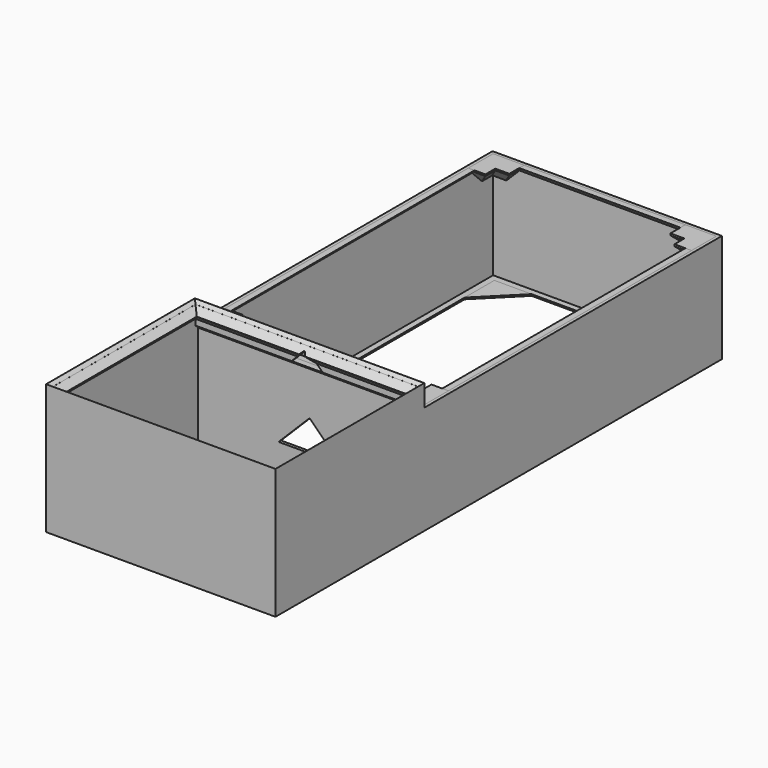
from build123d import *

# Parameters (mm, degrees)
BOX019_W          = 15
BOX019_H          = 15
BOX019_DEPTH      = 0.5
CHAMFER_SIZE      = 12
BOX018_W          = 15
BOX018_H          = 15
BOX018_DEPTH      = 0.5
CHAMFER001_SIZE   = 12
BOX017_W          = 15
BOX017_H          = 15
BOX017_DEPTH      = 0.5
CHAMFER002_SIZE   = 12
BOX016_W          = 15
BOX016_H          = 15
BOX016_DEPTH      = 0.5
CHAMFER003_SIZE   = 12
BOX029_W          = 2
BOX029_H          = 118
BOX029_DEPTH      = 2
CHAMFER008_SIZE   = 1.99
BOX028_W          = 72
BOX028_H          = 2
BOX028_DEPTH      = 2
CHAMFER009_SIZE   = 1.99
BOX031_W          = 2
BOX031_H          = 118
BOX031_DEPTH      = 2
CHAMFER010_SIZE   = 1.99
BOX030_W          = 72
BOX030_H          = 2
BOX030_DEPTH      = 2
CHAMFER011_SIZE   = 1.99
BOX026_W          = 4.5
BOX026_H          = 4
BOX026_DEPTH      = 6
BOX027_W          = 10
BOX027_H          = 10
BOX027_DEPTH      = 6
CHAMFER012_SIZE   = 5.49
CHAMFER013_SIZE   = 0.5
BOX024_W          = 4.5
BOX024_H          = 4
BOX024_DEPTH      = 6
BOX025_W          = 10
BOX025_H          = 10
BOX025_DEPTH      = 6
CHAMFER016_SIZE   = 5.4
CHAMFER017_SIZE   = 0.5
BOX020_W          = 4.5
BOX020_H          = 4
BOX020_DEPTH      = 6
BOX021_W          = 10
BOX021_H          = 10
BOX021_DEPTH      = 6
CHAMFER014_SIZE   = 5.4
CHAMFER018_SIZE   = 0.5
BOX022_W          = 4.5
BOX022_H          = 4
BOX022_DEPTH      = 6
BOX023_W          = 10
BOX023_H          = 10
BOX023_DEPTH      = 6
CHAMFER015_SIZE   = 5.4
CHAMFER019_SIZE   = 0.5
BOX037_W          = 26
BOX037_H          = 16
BOX037_DEPTH      = 0.7
CYLINDER001_R     = 2
CYLINDER001_DEPTH = 10
CYLINDER_R        = 2
CYLINDER_DEPTH    = 10
BOX036_W          = 74
BOX036_H          = 10
BOX036_DEPTH      = 0.7
BOX040_W          = 15
BOX040_H          = 15
BOX040_DEPTH      = 0.5
CHAMFER023_SIZE   = 12
BOX041_W          = 15
BOX041_H          = 15
BOX041_DEPTH      = 0.5
CHAMFER024_SIZE   = 12
BOX042_W          = 15
BOX042_H          = 15
BOX042_DEPTH      = 0.5
CHAMFER025_SIZE   = 12
BOX043_W          = 15
BOX043_H          = 15
BOX043_DEPTH      = 0.5
CHAMFER026_SIZE   = 12
BOX047_W          = 20
BOX047_H          = 10
BOX047_DEPTH      = 10
CHAMFER029_SIZE   = 9.99
BOX046_W          = 10
BOX046_H          = 10
BOX046_DEPTH      = 5
CHAMFER028_SIZE   = 4.99
BOX045_W          = 72
BOX045_H          = 1
BOX045_DEPTH      = 4
CHAMFER027_SIZE   = 0.99
BOX044_W          = 72
BOX044_H          = 1
BOX044_DEPTH      = 37
BOX033_W          = 72
BOX033_H          = 58
BOX033_DEPTH      = 42
BOX032_W          = 74
BOX032_H          = 60
BOX032_DEPTH      = 42
CHAMFER020_SIZE   = 0.99
BOX035_W          = 68
BOX035_H          = 54
BOX035_DEPTH      = 0.5
BOX034_W          = 74
BOX034_H          = 60
BOX034_DEPTH      = 0.5
BOX015_W          = 68
BOX015_H          = 114
BOX015_DEPTH      = 0.5
BOX014_W          = 74
BOX014_H          = 120
BOX014_DEPTH      = 0.5
BOX001_W          = 72
BOX001_H          = 118
BOX001_DEPTH      = 35
BOX_W             = 74
BOX_H             = 120
BOX_DEPTH         = 35
BOX039_W          = 68
BOX039_H          = 54
BOX039_DEPTH      = 4.1
BOX038_W          = 74
BOX038_H          = 60
BOX038_DEPTH      = 4.1
CHAMFER021_SIZE   = 2
CHAMFER022_SIZE   = 2
BOX048_W          = 72
BOX048_H          = 4
BOX048_DEPTH      = 0.5


with BuildPart() as chamfer_body:
    # Box019 → Box019 (new body)
    with BuildSketch(Plane(origin=(0, 105, 0), x_dir=(1, 0, 0), z_dir=(0, 0, 1))):
        with Locations((7.5, 7.5)):
            Rectangle(BOX019_W, BOX019_H)
    extrude(amount=BOX019_DEPTH)

    # Chamfer
    chamfer_edges = [chamfer_body.edges().sort_by_distance(p)[0] for p in [
        (15, 105, 0.25),
    ]]
    chamfer(chamfer_edges, length=CHAMFER_SIZE)


with BuildPart() as chamfer001:
    # Box018 → Box018 (new body)
    with BuildSketch(Plane(origin=(59, 105, 0), x_dir=(1, 0, 0), z_dir=(0, 0, 1))):
        with Locations((7.5, 7.5)):
            Rectangle(BOX018_W, BOX018_H)
    extrude(amount=BOX018_DEPTH)

    # Chamfer001
    chamfer001_edges = [chamfer001.edges().sort_by_distance(p)[0] for p in [
        (59, 105, 0.25),
    ]]
    chamfer(chamfer001_edges, length=CHAMFER001_SIZE)


with BuildPart() as chamfer002:
    # Box017 → Box017 (new body)
    with BuildSketch(Plane(origin=(59, 0, 0), x_dir=(1, 0, 0), z_dir=(0, 0, 1))):
        with Locations((7.5, 7.5)):
            Rectangle(BOX017_W, BOX017_H)
    extrude(amount=BOX017_DEPTH)

    # Chamfer002
    chamfer002_edges = [chamfer002.edges().sort_by_distance(p)[0] for p in [
        (59, 15, 0.25),
    ]]
    chamfer(chamfer002_edges, length=CHAMFER002_SIZE)


with BuildPart() as chamfer002_1:
    # Chamfer002 placement: moved
    add(chamfer002.part.moved(Location((0, -60, 0))))


with BuildPart() as chamfer003:
    # Box016 → Box016 (new body)
    with BuildSketch(Plane.XY):
        with Locations((7.5, 7.5)):
            Rectangle(BOX016_W, BOX016_H)
    extrude(amount=BOX016_DEPTH)

    # Chamfer003
    chamfer003_edges = [chamfer003.edges().sort_by_distance(p)[0] for p in [
        (15, 15, 0.25),
    ]]
    chamfer(chamfer003_edges, length=CHAMFER003_SIZE)


with BuildPart() as chamfer003_1:
    # Chamfer003 placement: moved
    add(chamfer003.part.moved(Location((0, -60, 0))))


with BuildPart() as chamfer008:
    # Box029 → Box029 (new body)
    with BuildSketch(Plane(origin=(1, 1, 33), x_dir=(1, 0, 0), z_dir=(0, 0, 1))):
        with Locations((1, 59)):
            Rectangle(BOX029_W, BOX029_H)
    extrude(amount=BOX029_DEPTH)

    # Chamfer008
    chamfer008_edges = [chamfer008.edges().sort_by_distance(p)[0] for p in [
        (3, 60, 33),
    ]]
    chamfer(chamfer008_edges, length=CHAMFER008_SIZE)


with BuildPart() as chamfer009:
    # Box028 → Box028 (new body)
    with BuildSketch(Plane(origin=(1, 1, 33), x_dir=(1, 0, 0), z_dir=(0, 0, 1))):
        with Locations((36, 1)):
            Rectangle(BOX028_W, BOX028_H)
    extrude(amount=BOX028_DEPTH)

    # Chamfer009
    chamfer009_edges = [chamfer009.edges().sort_by_distance(p)[0] for p in [
        (37, 3, 33),
    ]]
    chamfer(chamfer009_edges, length=CHAMFER009_SIZE)


with BuildPart() as chamfer010:
    # Box031 → Box031 (new body)
    with BuildSketch(Plane(origin=(71, 1, 33), x_dir=(1, 0, 0), z_dir=(0, 0, 1))):
        with Locations((1, 59)):
            Rectangle(BOX031_W, BOX031_H)
    extrude(amount=BOX031_DEPTH)

    # Chamfer010
    chamfer010_edges = [chamfer010.edges().sort_by_distance(p)[0] for p in [
        (71, 60, 33),
    ]]
    chamfer(chamfer010_edges, length=CHAMFER010_SIZE)


with BuildPart() as chamfer011:
    # Box030 → Box030 (new body)
    with BuildSketch(Plane(origin=(1, 117, 33), x_dir=(1, 0, 0), z_dir=(0, 0, 1))):
        with Locations((36, 1)):
            Rectangle(BOX030_W, BOX030_H)
    extrude(amount=BOX030_DEPTH)

    # Chamfer011
    chamfer011_edges = [chamfer011.edges().sort_by_distance(p)[0] for p in [
        (37, 117, 33),
    ]]
    chamfer(chamfer011_edges, length=CHAMFER011_SIZE)


with BuildPart() as cube021:
    # Box026 → Box026 (new body)
    with BuildSketch(Plane(origin=(6.5, 109, 29), x_dir=(1, 0, 0), z_dir=(0, 0, 1))):
        with Locations((2.25, 2)):
            Rectangle(BOX026_W, BOX026_H)
    extrude(amount=BOX026_DEPTH)


with BuildPart() as chamfer013:
    # Box027 → Box027 (new body)
    with BuildSketch(Plane(origin=(1, 109, 29), x_dir=(1, 0, 0), z_dir=(0, 0, 1))):
        with Locations((5, 5)):
            Rectangle(BOX027_W, BOX027_H)
    extrude(amount=BOX027_DEPTH)

    # Cut010: cut Cube021
    add(cube021.part, mode=Mode.SUBTRACT)

    # Chamfer012
    chamfer012_edges = [chamfer013.edges().sort_by_distance(p)[0] for p in [
        (3.75, 109, 29),
        (11, 116, 29),
        (8.75, 113, 29),
        (6.5, 111, 29),
    ]]
    chamfer(chamfer012_edges, length=CHAMFER012_SIZE)

    # Chamfer013
    chamfer013_edges = [chamfer013.edges().sort_by_distance(p)[0] for p in [
        (3.26, 118.49, 29),
    ]]
    chamfer(chamfer013_edges, length=CHAMFER013_SIZE)


with BuildPart() as cube019:
    # Box024 → Box024 (new body)
    with BuildSketch(Plane(origin=(63, 109, 29), x_dir=(1, 0, 0), z_dir=(0, 0, 1))):
        with Locations((2.25, 2)):
            Rectangle(BOX024_W, BOX024_H)
    extrude(amount=BOX024_DEPTH)


with BuildPart() as chamfer017:
    # Box025 → Box025 (new body)
    with BuildSketch(Plane(origin=(63, 109, 29), x_dir=(1, 0, 0), z_dir=(0, 0, 1))):
        with Locations((5, 5)):
            Rectangle(BOX025_W, BOX025_H)
    extrude(amount=BOX025_DEPTH)

    # Cut011: cut Cube019
    add(cube019.part, mode=Mode.SUBTRACT)

    # Chamfer016
    chamfer016_edges = [chamfer017.edges().sort_by_distance(p)[0] for p in [
        (63, 116, 29),
        (65.25, 113, 29),
        (70.25, 109, 29),
        (67.5, 111, 29),
    ]]
    chamfer(chamfer016_edges, length=CHAMFER016_SIZE)

    # Chamfer017
    chamfer017_edges = [chamfer017.edges().sort_by_distance(p)[0] for p in [
        (70.65, 118.4, 29),
    ]]
    chamfer(chamfer017_edges, length=CHAMFER017_SIZE)


with BuildPart() as cube:
    # Box020 → Box020 (new body)
    with BuildSketch(Plane(origin=(6.5, 7, 29), x_dir=(1, 0, 0), z_dir=(0, 0, 1))):
        with Locations((2.25, 2)):
            Rectangle(BOX020_W, BOX020_H)
    extrude(amount=BOX020_DEPTH)


with BuildPart() as chamfer018:
    # Box021 → Box021 (new body)
    with BuildSketch(Plane(origin=(1, 1, 29), x_dir=(1, 0, 0), z_dir=(0, 0, 1))):
        with Locations((5, 5)):
            Rectangle(BOX021_W, BOX021_H)
    extrude(amount=BOX021_DEPTH)

    # Cut012: cut Cube
    add(cube.part, mode=Mode.SUBTRACT)

    # Chamfer014
    chamfer014_edges = [chamfer018.edges().sort_by_distance(p)[0] for p in [
        (3.75, 11, 29),
        (6.5, 9, 29),
        (8.75, 7, 29),
        (11, 4, 29),
    ]]
    chamfer(chamfer014_edges, length=CHAMFER014_SIZE)

    # Chamfer018
    chamfer018_edges = [chamfer018.edges().sort_by_distance(p)[0] for p in [
        (3.35, 1.6, 29),
    ]]
    chamfer(chamfer018_edges, length=CHAMFER018_SIZE)


with BuildPart() as cube017:
    # Box022 → Box022 (new body)
    with BuildSketch(Plane(origin=(63, 7, 29), x_dir=(1, 0, 0), z_dir=(0, 0, 1))):
        with Locations((2.25, 2)):
            Rectangle(BOX022_W, BOX022_H)
    extrude(amount=BOX022_DEPTH)


with BuildPart() as chamfer019:
    # Box023 → Box023 (new body)
    with BuildSketch(Plane(origin=(63, 1, 29), x_dir=(1, 0, 0), z_dir=(0, 0, 1))):
        with Locations((5, 5)):
            Rectangle(BOX023_W, BOX023_H)
    extrude(amount=BOX023_DEPTH)

    # Cut013: cut Cube017
    add(cube017.part, mode=Mode.SUBTRACT)

    # Chamfer015
    chamfer015_edges = [chamfer019.edges().sort_by_distance(p)[0] for p in [
        (63, 4, 29),
        (65.25, 7, 29),
        (67.5, 9, 29),
        (70.25, 11, 29),
    ]]
    chamfer(chamfer015_edges, length=CHAMFER015_SIZE)

    # Chamfer019
    chamfer019_edges = [chamfer019.edges().sort_by_distance(p)[0] for p in [
        (70.65, 1.6, 29),
    ]]
    chamfer(chamfer019_edges, length=CHAMFER019_SIZE)


with BuildPart() as cube028:
    # Box037 → Box037 (new body)
    with BuildSketch(Plane(origin=(24, -38, 0), x_dir=(1, 0, 0), z_dir=(0, 0, 1))):
        with Locations((13, 8)):
            Rectangle(BOX037_W, BOX037_H)
    extrude(amount=BOX037_DEPTH)


with BuildPart() as cylinder001:
    # Cylinder001 → Cylinder001 (new body)
    with BuildSketch(Plane(origin=(56.25, -30, 0), x_dir=(1, 0, 0), z_dir=(0, 0, 1))):
        Circle(CYLINDER001_R)
    extrude(amount=CYLINDER001_DEPTH)


with BuildPart() as cylinder:
    # Cylinder → Cylinder (new body)
    with BuildSketch(Plane(origin=(17.75, -30, 0), x_dir=(1, 0, 0), z_dir=(0, 0, 1))):
        Circle(CYLINDER_R)
    extrude(amount=CYLINDER_DEPTH)


with BuildPart() as cut017:
    # Box036 → Box036 (new body)
    with BuildSketch(Plane(origin=(0, -35, 0), x_dir=(1, 0, 0), z_dir=(0, 0, 1))):
        with Locations((37, 5)):
            Rectangle(BOX036_W, BOX036_H)
    extrude(amount=BOX036_DEPTH)

    # Cut016: cut Cylinder
    add(cylinder.part, mode=Mode.SUBTRACT)

    # Cut017: cut Cylinder001
    add(cylinder001.part, mode=Mode.SUBTRACT)


with BuildPart() as chamfer023:
    # Box040 → Box040 (new body)
    with BuildSketch(Plane(origin=(59, 105, 0), x_dir=(1, 0, 0), z_dir=(0, 0, 1))):
        with Locations((7.5, 7.5)):
            Rectangle(BOX040_W, BOX040_H)
    extrude(amount=BOX040_DEPTH)

    # Chamfer023
    chamfer023_edges = [chamfer023.edges().sort_by_distance(p)[0] for p in [
        (59, 105, 0.25),
    ]]
    chamfer(chamfer023_edges, length=CHAMFER023_SIZE)


with BuildPart() as chamfer023_1:
    # Chamfer023 placement: moved
    add(chamfer023.part.moved(Location((0, -120, 0))))


with BuildPart() as chamfer024:
    # Box041 → Box041 (new body)
    with BuildSketch(Plane(origin=(0, 105, 0), x_dir=(1, 0, 0), z_dir=(0, 0, 1))):
        with Locations((7.5, 7.5)):
            Rectangle(BOX041_W, BOX041_H)
    extrude(amount=BOX041_DEPTH)

    # Chamfer024
    chamfer024_edges = [chamfer024.edges().sort_by_distance(p)[0] for p in [
        (15, 105, 0.25),
    ]]
    chamfer(chamfer024_edges, length=CHAMFER024_SIZE)


with BuildPart() as chamfer024_1:
    # Chamfer024 placement: moved
    add(chamfer024.part.moved(Location((0, -120, 0))))


with BuildPart() as chamfer025:
    # Box042 → Box042 (new body)
    with BuildSketch(Plane(origin=(59, 0, 0), x_dir=(1, 0, 0), z_dir=(0, 0, 1))):
        with Locations((7.5, 7.5)):
            Rectangle(BOX042_W, BOX042_H)
    extrude(amount=BOX042_DEPTH)

    # Chamfer025
    chamfer025_edges = [chamfer025.edges().sort_by_distance(p)[0] for p in [
        (59, 15, 0.25),
    ]]
    chamfer(chamfer025_edges, length=CHAMFER025_SIZE)


with BuildPart() as chamfer026:
    # Box043 → Box043 (new body)
    with BuildSketch(Plane.XY):
        with Locations((7.5, 7.5)):
            Rectangle(BOX043_W, BOX043_H)
    extrude(amount=BOX043_DEPTH)

    # Chamfer026
    chamfer026_edges = [chamfer026.edges().sort_by_distance(p)[0] for p in [
        (15, 15, 0.25),
    ]]
    chamfer(chamfer026_edges, length=CHAMFER026_SIZE)


with BuildPart() as chamfer029:
    # Box047 → Box047 (new body)
    with BuildSketch(Plane(origin=(27, 0, 10), x_dir=(1, 0, 0), z_dir=(0, 0, 1))):
        with Locations((10, 5)):
            Rectangle(BOX047_W, BOX047_H)
    extrude(amount=BOX047_DEPTH)

    # Chamfer029
    chamfer029_edges = [chamfer029.edges().sort_by_distance(p)[0] for p in [
        (27, 5, 20),
        (47, 5, 20),
    ]]
    chamfer(chamfer029_edges, length=CHAMFER029_SIZE)


with BuildPart() as chamfer028:
    # Box046 → Box046 (new body)
    with BuildSketch(Plane(origin=(32, -5, 35), x_dir=(1, 0, 0), z_dir=(0, 0, 1))):
        with Locations((5, 5)):
            Rectangle(BOX046_W, BOX046_H)
    extrude(amount=BOX046_DEPTH)

    # Chamfer028
    chamfer028_edges = [chamfer028.edges().sort_by_distance(p)[0] for p in [
        (32, 0, 40),
        (42, 0, 40),
    ]]
    chamfer(chamfer028_edges, length=CHAMFER028_SIZE)


with BuildPart() as obj1:
    # Box045 → Box045 (new body)
    with BuildSketch(Plane(origin=(1, -1, 34), x_dir=(1, 0, 0), z_dir=(0, 0, 1))):
        with Locations((36, 0.5)):
            Rectangle(BOX045_W, BOX045_H)
    extrude(amount=BOX045_DEPTH)

    # Chamfer027
    chamfer027_edges = [obj1.edges().sort_by_distance(p)[0] for p in [
        (37, -1, 34),
    ]]
    chamfer(chamfer027_edges, length=CHAMFER027_SIZE)


with BuildPart() as cube033:
    # Box044 → Box044 (new body)
    with BuildSketch(Plane(origin=(1, -1, 0), x_dir=(1, 0, 0), z_dir=(0, 0, 1))):
        with Locations((36, 0.5)):
            Rectangle(BOX044_W, BOX044_H)
    extrude(amount=BOX044_DEPTH)


with BuildPart() as obj2:
    # Box033 → Box033 (new body)
    with BuildSketch(Plane(origin=(1, -59, 0), x_dir=(1, 0, 0), z_dir=(0, 0, 1))):
        with Locations((36, 29)):
            Rectangle(BOX033_W, BOX033_H)
    extrude(amount=BOX033_DEPTH)


with BuildPart() as obj3:
    # Box032 → Box032 (new body)
    with BuildSketch(Plane(origin=(0, -60, 0), x_dir=(1, 0, 0), z_dir=(0, 0, 1))):
        with Locations((37, 30)):
            Rectangle(BOX032_W, BOX032_H)
    extrude(amount=BOX032_DEPTH)

    # Cut014: cut obj2
    add(obj2.part, mode=Mode.SUBTRACT)

    # Chamfer020
    chamfer020_edges = [obj3.edges().sort_by_distance(p)[0] for p in [
        (37, -1, 42),
        (1, -30, 42),
        (37, -59, 42),
        (73, -30, 42),
    ]]
    chamfer(chamfer020_edges, length=CHAMFER020_SIZE)


with BuildPart() as obj4:
    # Box035 → Box035 (new body)
    with BuildSketch(Plane(origin=(3, -57, 0), x_dir=(1, 0, 0), z_dir=(0, 0, 1))):
        with Locations((34, 27)):
            Rectangle(BOX035_W, BOX035_H)
    extrude(amount=BOX035_DEPTH)


with BuildPart() as obj3_boden:
    # Box034 → Box034 (new body)
    with BuildSketch(Plane(origin=(0, -60, 0), x_dir=(1, 0, 0), z_dir=(0, 0, 1))):
        with Locations((37, 30)):
            Rectangle(BOX034_W, BOX034_H)
    extrude(amount=BOX034_DEPTH)

    # Cut015: cut obj4
    add(obj4.part, mode=Mode.SUBTRACT)


with BuildPart() as basis002:
    # Box015 → Box015 (new body)
    with BuildSketch(Plane(origin=(3, 3, 0), x_dir=(1, 0, 0), z_dir=(0, 0, 1))):
        with Locations((34, 57)):
            Rectangle(BOX015_W, BOX015_H)
    extrude(amount=BOX015_DEPTH)


with BuildPart() as obj5:
    # Box014 → Box014 (new body)
    with BuildSketch(Plane.XY):
        with Locations((37, 60)):
            Rectangle(BOX014_W, BOX014_H)
    extrude(amount=BOX014_DEPTH)

    # Cut009: cut Basis002
    add(basis002.part, mode=Mode.SUBTRACT)


with BuildPart() as obj6:
    # Box001 → Box001 (new body)
    with BuildSketch(Plane(origin=(1, 1, 0), x_dir=(1, 0, 0), z_dir=(0, 0, 1))):
        with Locations((36, 59)):
            Rectangle(BOX001_W, BOX001_H)
    extrude(amount=BOX001_DEPTH)


with BuildPart() as obj7:
    # Box → Box (new body)
    with BuildSketch(Plane.XY):
        with Locations((37, 60)):
            Rectangle(BOX_W, BOX_H)
    extrude(amount=BOX_DEPTH)

    # Cut: cut obj6
    add(obj6.part, mode=Mode.SUBTRACT)

    # Fusion: union obj5
    add(obj5.part)

    # Fusion001: union obj3_boden
    add(obj3_boden.part)

    # Fusion002: union obj3
    add(obj3.part)

    # Cut020: cut Cube033
    add(cube033.part, mode=Mode.SUBTRACT)


with BuildPart() as obj8:
    # Box039 → Box039 (new body)
    with BuildSketch(Plane(origin=(3, -57, 0), x_dir=(1, 0, 0), z_dir=(0, 0, 1))):
        with Locations((34, 27)):
            Rectangle(BOX039_W, BOX039_H)
    extrude(amount=BOX039_DEPTH)


with BuildPart() as cut022:
    # Box038 → Box038 (new body)
    with BuildSketch(Plane(origin=(0, -60, 0), x_dir=(1, 0, 0), z_dir=(0, 0, 1))):
        with Locations((37, 30)):
            Rectangle(BOX038_W, BOX038_H)
    extrude(amount=BOX038_DEPTH)

    # Cut019: cut obj8
    add(obj8.part, mode=Mode.SUBTRACT)


with BuildPart() as cut022_1:
    # Cut019 placement: moved
    add(cut022.part.moved(Location((0, 0, 36.9))))

    # Chamfer021
    chamfer021_edges = [cut022_1.edges().sort_by_distance(p)[0] for p in [
        (37, -3, 41),
        (3, -30, 41),
        (37, -57, 41),
        (71, -30, 41),
    ]]
    chamfer(chamfer021_edges, length=CHAMFER021_SIZE)

    # Chamfer022
    chamfer022_edges = [cut022_1.edges().sort_by_distance(p)[0] for p in [
        (37, -3, 36.9),
        (3, -30, 36.9),
        (71, -30, 36.9),
        (37, -57, 36.9),
    ]]
    chamfer(chamfer022_edges, length=CHAMFER022_SIZE)

    # Fusion003: union obj7
    add(obj7.part)

    # Fusion004: union obj1
    add(obj1.part)

    # Cut021: cut Chamfer028
    add(chamfer028.part, mode=Mode.SUBTRACT)

    # Cut022: cut Chamfer029
    add(chamfer029.part, mode=Mode.SUBTRACT)


with BuildPart() as cube036:
    # Box048 → Box048 (new body)
    with BuildSketch(Plane(origin=(1, -2, 0), x_dir=(1, 0, 0), z_dir=(0, 0, 1))):
        with Locations((36, 2)):
            Rectangle(BOX048_W, BOX048_H)
    extrude(amount=BOX048_DEPTH)


solid = Compound([chamfer_body.part, chamfer001.part, chamfer002_1.part, chamfer003_1.part, chamfer008.part, chamfer009.part, chamfer010.part, chamfer011.part, chamfer013.part, chamfer017.part, chamfer018.part, chamfer019.part, cube028.part, cut017.part, chamfer023_1.part, chamfer024_1.part, chamfer025.part, chamfer026.part, cut022_1.part, cube036.part])
